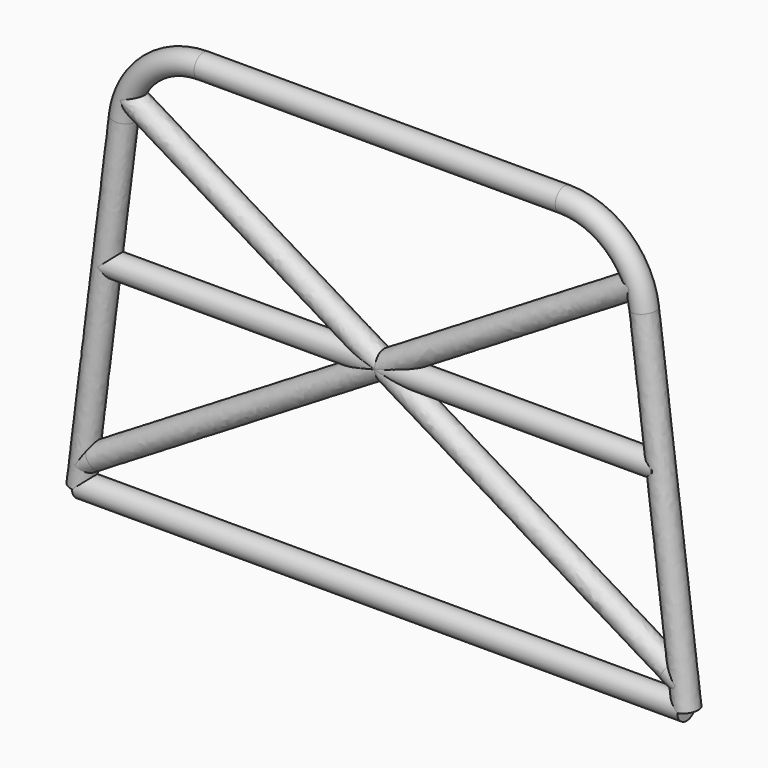
from build123d import *

# Parameters (mm, degrees)
F5_R = 22.225
F4_R = 22.225
F1_R = 22.225


with BuildPart() as f6:
    # F6: sweep along a path in F0
    with BuildLine(Plane.XZ) as f6_path:
        Line((0, 0), (-545.311094, -330.646873))
        Line((-545.311094, -330.646873), (-569.385416, -345.244227))
    # F5 (on face) → F6 (sweep)
    with BuildSketch(Plane(origin=(0, 0, 0), x_dir=(0, 1, 0), z_dir=(0.85509, 0, 0.51848))):
        Circle(F5_R)
    sweep(path=f6_path.line)

    # F7: sweep along a path in F0
    with BuildLine(Plane.XZ) as f7_path:
        Line((-483.693329, 293.285225), (0, 0))
    # F4 (on face) → F7 (sweep)
    with BuildSketch(Plane(origin=(0, 0, 0), x_dir=(0, 1, 0), z_dir=(0.85509, 0, -0.51848))):
        Circle(F4_R)
    sweep(path=f7_path.line)



with BuildPart() as f8:
    # F8: sweep along a path in F0
    with BuildLine(Plane.XZ) as f8_path:
        Line((0, 0), (-526.013728, 0))
    # F1 (on Right) → F8 (sweep)
    with BuildSketch(Plane.YZ):
        Circle(F1_R)
    sweep(path=f8_path.line)


with BuildPart() as f9:
    # F9: sweep along a path in F0
    with BuildLine(Plane.XZ) as f9_path:
        Line((0, 387.35), (-342.9, 387.35))
        ThreePointArc((-342.9, 387.35), (-443.723492, 349.232035), (-494.111467, 253.946108))
        Line((-494.111467, 253.946108), (-574.675, -387.35))
    # F1 (on Right) → F9 (sweep)
    with BuildSketch(Plane.YZ):
        with Locations((0, 387.35)):
            Circle(F1_R)
    sweep(path=f9_path.line)

    # F10: sweep along a path in F0
    with BuildLine(Plane.XZ) as f10_path:
        Line((0, -387.35), (-552.45, -387.35))
        Line((-552.45, -387.35), (-574.675, -387.35))
    # F1 (on Right) → F10 (sweep)
    with BuildSketch(Plane.YZ):
        with Locations((0, -387.35)):
            Circle(F1_R)
    sweep(path=f10_path.line)


with BuildPart() as f11_1:
    # F11: instance of F8
    add(f8.part.mirror(Plane.YZ))


with BuildPart() as f11_2:
    # F11: instance of F6
    add(f6.part.mirror(Plane.YZ))


with BuildPart() as f11_3:
    # F11: instance of F9
    add(f9.part.mirror(Plane.YZ))


with BuildPart() as f6_1:
    add(f6.part)

    add(f8.part)  # F12 merges F8

    add(f9.part)  # F12 merges F9

    add(f11_3.part)  # F12 merges F11_3
    # F12: sweep along a path in F0
    with BuildLine(Plane.XZ) as f12_path:
        Line((0, 387.35), (-342.9, 387.35))
        ThreePointArc((-342.9, 387.35), (-443.723492, 349.232035), (-494.111467, 253.946108))
        Line((-494.111467, 253.946108), (-574.675, -387.35))
    # F1 (on Right) → F12 (sweep)
    with BuildSketch(Plane.YZ):
        with Locations((0, 387.35)):
            Circle(F1_R)
    sweep(path=f12_path.line)


solid = Compound([f11_1.part, f11_2.part, f6_1.part])
